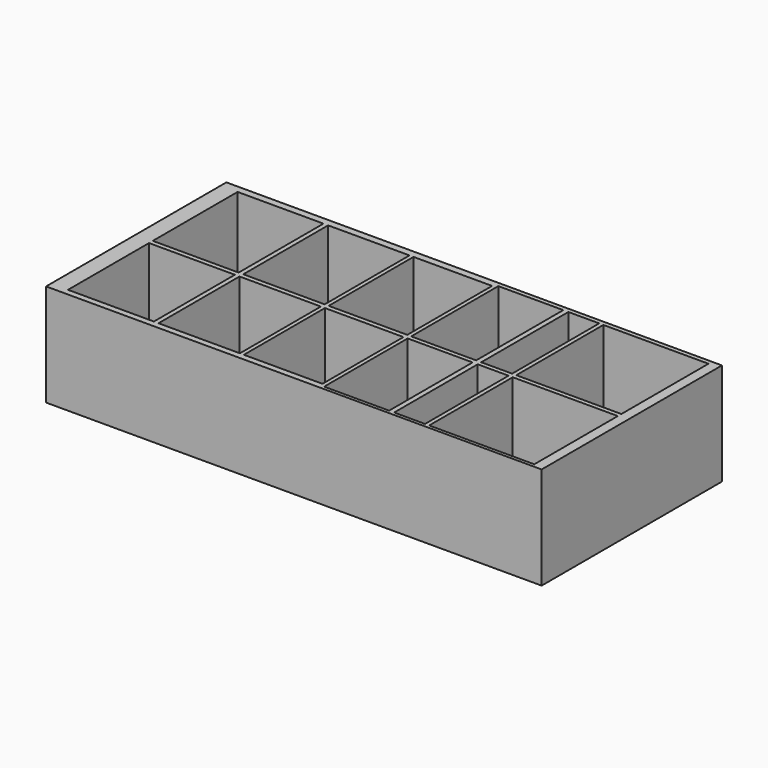
from build123d import *

# Parameters (mm, degrees)
F0_W      = 534.8856896162
F0_H      = 573.5703483224
F1_DEPTH  = 6.35
F2_W      = 534.8856896162
F2_H      = 8.2960128784
F3_DEPTH  = 254
F4_W      = 534.8856896162
F4_H      = 11.1295878887
F5_DEPTH  = 254
F6_W      = 534.8856896162
F6_H      = 11.2980566919
F7_DEPTH  = 254
F8_W      = 10.6345191598
F8_H      = 555.1736503839
F8_H_2    = 277.0723737776
F9_DEPTH  = 254
F10_W     = 573.5703483224
F10_H     = 260.35
F11_DEPTH = 25.4
F12_W     = 12.9221528769
F12_H     = 254
F13_DEPTH = 558.8
F14_W     = 573.5703483224
F14_H     = 260.35
F15_DEPTH = 10.16
F16_W     = 15.8027634025
F16_H     = 260.35
F17_DEPTH = 690.88
F18_W     = 18.2235240936
F18_H     = 260.35
F19_DEPTH = 690.88
F20_W     = 12.0796486735
F20_H     = 260.35
F21_DEPTH = 690.88
F22_W     = 10.1929306984
F22_H     = 260.35
F23_DEPTH = 553.72
F24_W     = 11.8005871773
F24_H     = 260.35
F25_DEPTH = 551.18
F26_W     = 571.6413035989
F26_H     = 260.35
F27_DEPTH = 43.18
F28_W     = 547.8762835264
F28_H     = 13.0373798311
F29_DEPTH = 688.34


with BuildPart() as f1:
    # F0 (on Top) → F1 (new body)
    with BuildSketch(Plane.XY):
        with Locations((-66.9661834836, 184.2964999378)):
            Rectangle(F0_W, F0_H)
    extrude(amount=F1_DEPTH)

    # F2 (on face) → F3 (join)
    with BuildSketch(Plane.XY.offset(6.35)):
        with Locations((-66.9661834836, -98.3406677842)):
            Rectangle(F2_W, F2_H)
    extrude(amount=F3_DEPTH)

    # F4 (on face) → F5 (join)
    with BuildSketch(Plane.XY.offset(6.35)):
        with Locations((-66.9661834836, 465.5168801546)):
            Rectangle(F4_W, F4_H)
    extrude(amount=F5_DEPTH)

    # F6 (on face) → F7 (join)
    with BuildSketch(Plane.XY.offset(6.35)):
        with Locations((-66.9661834836, 177.2306840867)):
            Rectangle(F6_W, F6_H)
    extrude(amount=F7_DEPTH)

    # F8 (on face) → F9 (join)
    with BuildSketch(Plane.XY.offset(6.35)):
        with Locations((-72.2834430635, 182.3652610183)):
            Rectangle(F8_W, F8_H)
        with Locations((-72.2834430635, 321.4158993214)):
            Rectangle(F8_W, F8_H_2)
    extrude(amount=F9_DEPTH)

    # F10 (on face) → F11 (join)
    with BuildSketch(Plane.YZ.offset(200.4766613245)):
        with Locations((184.2964999378, 130.175)):
            Rectangle(F10_W, F10_H)
    extrude(amount=F11_DEPTH)

    # F12 (on face) → F13 (join)
    with BuildSketch(Plane.XZ.offset(-459.9520862103)):
        with Locations((-162.5997051597, 133.35)):
            Rectangle(F12_W, F12_H)
    extrude(amount=F13_DEPTH)

    # F14 (on face) → F15 (join)
    with BuildSketch(Plane(origin=(-334.4090282917, 0, 0), x_dir=(0, -1, 0), z_dir=(-1, 0, 0))):
        with Locations((-184.2964999378, 130.175)):
            Rectangle(F14_W, F14_H)
    extrude(amount=F15_DEPTH)

    # F16 (on face) → F17 (join)
    with BuildSketch(Plane(origin=(-344.5690282917, 0, 0), x_dir=(0, -1, 0), z_dir=(-1, 0, 0))):
        with Locations((94.5872925222, 130.175)):
            Rectangle(F16_W, F16_H)
    extrude(amount=F17_DEPTH)

    # F18 (on face) → F19 (join)
    with BuildSketch(Plane(origin=(-344.5690282917, 0, 0), x_dir=(0, -1, 0), z_dir=(-1, 0, 0))):
        with Locations((-461.9699120522, 130.175)):
            Rectangle(F18_W, F18_H)
    extrude(amount=F19_DEPTH)

    # F20 (on face) → F21 (join)
    with BuildSketch(Plane(origin=(-344.5690282917, 0, 0), x_dir=(0, -1, 0), z_dir=(-1, 0, 0))):
        with Locations((-177.0462952554, 130.175)):
            Rectangle(F20_W, F20_H)
    extrude(amount=F21_DEPTH)

    # F22 (on face) → F23 (join)
    with BuildSketch(Plane.XZ.offset(-452.8581500053)):
        with Locations((-549.6869385242, 130.175)):
            Rectangle(F22_W, F22_H)
    extrude(amount=F23_DEPTH)

    # F24 (on face) → F25 (join)
    with BuildSketch(Plane(origin=(0, -86.685910821, 0), x_dir=(-1, 0, 0), z_dir=(0, 1, 0))):
        with Locations((767.846673727, 130.175)):
            Rectangle(F24_W, F24_H)
    extrude(amount=F25_DEPTH)

    # F26 (on face) → F27 (join)
    with BuildSketch(Plane(origin=(-1035.4490282917, 0, 0), x_dir=(0, -1, 0), z_dir=(-1, 0, 0))):
        with Locations((-183.331977576, 130.175)):
            Rectangle(F26_W, F26_H)
    extrude(amount=-F27_DEPTH)

    # F28 (on face) → F29 (join)
    with BuildSketch(Plane(origin=(-344.5690282917, 0, 0), x_dir=(0, -1, 0), z_dir=(-1, 0, 0))):
        with Locations((-187.2522309422, 6.5186899155)):
            Rectangle(F28_W, F28_H)
    extrude(amount=F29_DEPTH)


solid = f1.part
